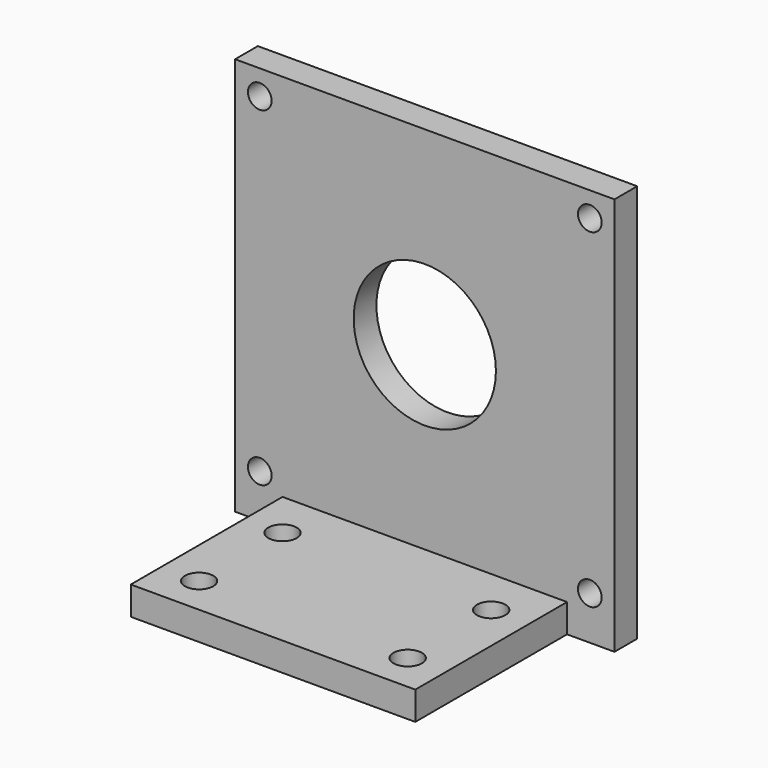
from build123d import *

# Parameters (mm, degrees)
F0_W     = 80
F0_H     = 80
F0_R     = 2.5
F0_R_2   = 15
F1_DEPTH = 6
F2_W     = 60
F2_H     = 2
F2_H_2   = 4
F3_DEPTH = 40
F4_R     = 3
F5_DEPTH = 6
F6_W     = 80
F6_H     = 4
F7_DEPTH = 6


with BuildPart() as f1:
    # F0 (on Front) → F1 (new body)
    with BuildSketch(Plane.XZ):
        Rectangle(F0_W, F0_H)
        with Locations((-34.8, -34.8)):
            Circle(F0_R, mode=Mode.SUBTRACT)
        with Locations((34.8, -34.8)):
            Circle(F0_R, mode=Mode.SUBTRACT)
        with Locations((-34.8, 34.8)):
            Circle(F0_R, mode=Mode.SUBTRACT)
        Circle(F0_R_2, mode=Mode.SUBTRACT)
        with Locations((34.8, 34.8)):
            Circle(F0_R, mode=Mode.SUBTRACT)
    extrude(amount=F1_DEPTH)

    # F2 (on face) → F3 (join)
    with BuildSketch(Plane.XZ.offset(6)):
        with Locations((0, -39)):
            Rectangle(F2_W, F2_H)
        with Locations((0, -42)):
            Rectangle(F2_W, F2_H_2)
    extrude(amount=F3_DEPTH)

    # F4 (on face) → F5 (cut, through all)
    with BuildSketch(Plane.XY.offset(-38)):
        with Locations((-22, -38)):
            Circle(F4_R)
        with Locations((-22, -16)):
            Circle(F4_R)
        with Locations((22, -16)):
            Circle(F4_R)
        with Locations((22, -38)):
            Circle(F4_R)
    extrude(amount=-F5_DEPTH, mode=Mode.SUBTRACT)

    # F6 (on face) → F7 (join, through all)
    with BuildSketch(Plane.XZ.offset(6)):
        with Locations((0, -42)):
            Rectangle(F6_W, F6_H)
    extrude(amount=-F7_DEPTH)


solid = f1.part
